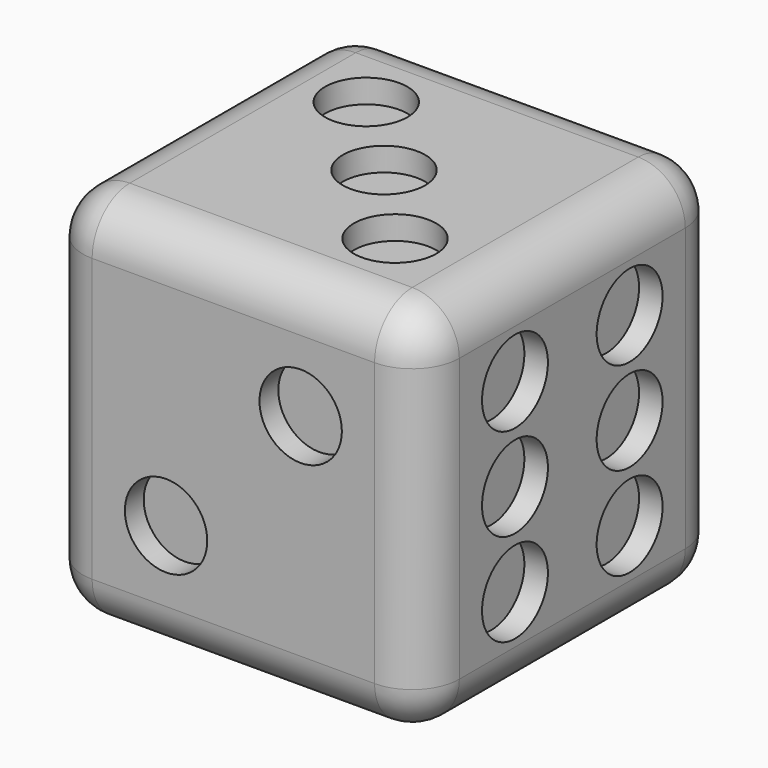
from build123d import *

# Parameters (mm, degrees)
F0_W      = 16
F0_H      = 16
F1_DEPTH  = 8
F2_R      = 2
F3_R      = 1.75
F4_DEPTH  = 1
F5_R      = 1.75
F6_DEPTH  = 1
F7_R      = 1.75
F8_DEPTH  = 1
F9_R      = 1.75
F10_DEPTH = 1
F11_R     = 1.75
F12_DEPTH = 1
F13_R     = 1.75
F14_DEPTH = 1


with BuildPart() as f1:
    # F0 (on Front) → F1 (new body, symmetric)
    with BuildSketch(Plane.XZ):
        Rectangle(F0_W, F0_H)
    extrude(amount=F1_DEPTH, both=True)

    # F2
    f2_edges = [f1.edges().sort_by_distance(p)[0] for p in [
        (0, -8, 8),
        (8, 0, 8),
        (0, 8, 8),
        (-8, 0, 8),
        (-8, 8, 0),
        (-8, -8, 0),
        (-8, 0, -8),
        (0, -8, -8),
        (8, 0, -8),
        (8, -8, 0),
        (0, 8, -8),
        (8, 8, 0),
    ]]
    fillet(f2_edges, radius=F2_R)

    # F3 (on face) → F4 (cut)
    with BuildSketch(Plane.XZ.offset(8)):
        with Locations((2.859508, 2.977045)):
            Circle(F3_R)
        with Locations((-2.859499, -2.97705)):
            Circle(F3_R)
    extrude(amount=-F4_DEPTH, mode=Mode.SUBTRACT)

    # F5 (on face) → F6 (cut)
    with BuildSketch(Plane.XY.offset(8)):
        Circle(F5_R)
        with Locations((-3.517741, 3.454462)):
            Circle(F5_R)
        with Locations((3.357293, -3.610601)):
            Circle(F5_R)
    extrude(amount=-F6_DEPTH, mode=Mode.SUBTRACT)

    # F7 (on face) → F8 (cut)
    with BuildSketch(Plane.YZ.offset(8)):
        with Locations((3.044323, 0)):
            Circle(F7_R)
        with Locations((-3.04432, 0)):
            Circle(F7_R)
        with Locations((-3.04432, 3.93744)):
            Circle(F7_R)
        with Locations((3.044323, 3.93744)):
            Circle(F7_R)
        with Locations((-3.04432, -3.93744)):
            Circle(F7_R)
        with Locations((3.044323, -3.93744)):
            Circle(F7_R)
    extrude(amount=-F8_DEPTH, mode=Mode.SUBTRACT)

    # F9 (on face) → F10 (cut)
    with BuildSketch(Plane(origin=(0, 8, 0), x_dir=(-1, 0, 0), z_dir=(0, 1, 0))):
        Circle(F9_R)
        with Locations((-3.258533, 3.392079)):
            Circle(F9_R)
        with Locations((3.258531, 3.392079)):
            Circle(F9_R)
        with Locations((-3.275193, -3.375994)):
            Circle(F9_R)
        with Locations((3.275193, -3.375994)):
            Circle(F9_R)
    extrude(amount=-F10_DEPTH, mode=Mode.SUBTRACT)

    # F11 (on face) → F12 (cut)
    with BuildSketch(Plane(origin=(0, 0, -8), x_dir=(1, 0, 0), z_dir=(0, 0, -1))):
        with Locations((2.87598, -3.00438)):
            Circle(F11_R)
        with Locations((-2.875984, -3.004376)):
            Circle(F11_R)
        with Locations((2.87598, 3.00438)):
            Circle(F11_R)
        with Locations((-2.875984, 3.00438)):
            Circle(F11_R)
    extrude(amount=-F12_DEPTH, mode=Mode.SUBTRACT)

    # F13 (on face) → F14 (cut)
    with BuildSketch(Plane(origin=(-8, 0, 0), x_dir=(0, -1, 0), z_dir=(-1, 0, 0))):
        Circle(F13_R)
    extrude(amount=-F14_DEPTH, mode=Mode.SUBTRACT)


solid = f1.part
